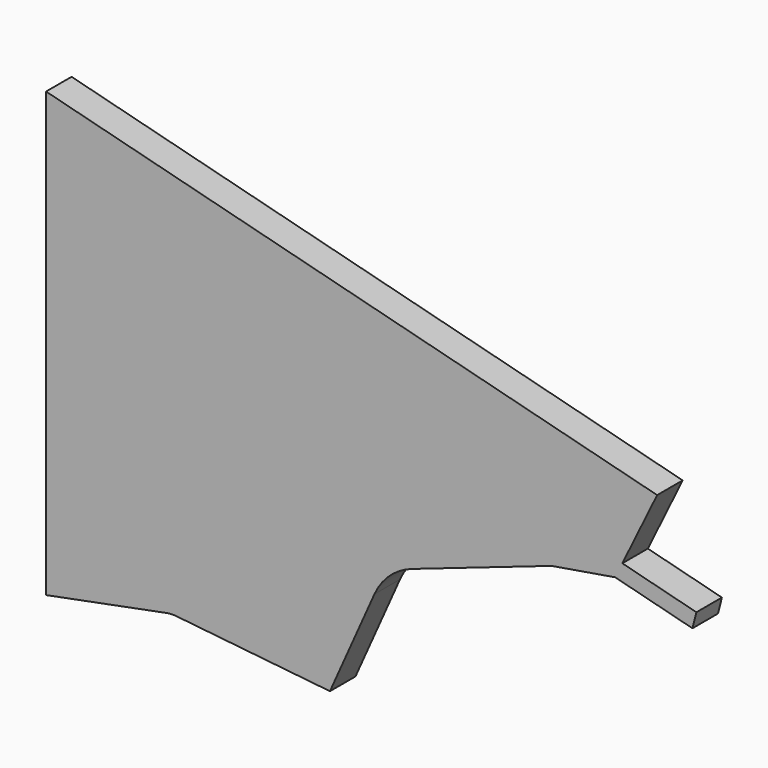
from build123d import *

# Parameters (mm, degrees)
F1_DEPTH = 2
F2_R     = 4
F3_R     = 2


with BuildPart() as f1:
    # F0 (on Front) → F1 (new body)
    with BuildSketch(Plane.XZ):
        Polygon((-10.456731, 12.310552), (-10.456731, -15.486014), (-2.603713, -13.959542), (7.341506, -15.004827), (10.839441, -7.148336), (21.240145, -3.567086), (25.226323, -2.90037), (30.069817, -4.141563), (30.318056, -3.172864), (25.673877, -1.982748), (27.85655, 2.492394), align=None)
    extrude(amount=F1_DEPTH)

    # F2
    f2_edges = [f1.edges().sort_by_distance(p)[0] for p in [
        (10.839441, -1, -7.148336),
    ]]
    fillet(f2_edges, radius=F2_R)

    # F3
    f3_edges = [f1.edges().sort_by_distance(p)[0] for p in [
        (-2.603713, -1, -13.959542),
    ]]
    fillet(f3_edges, radius=F3_R)


solid = f1.part
